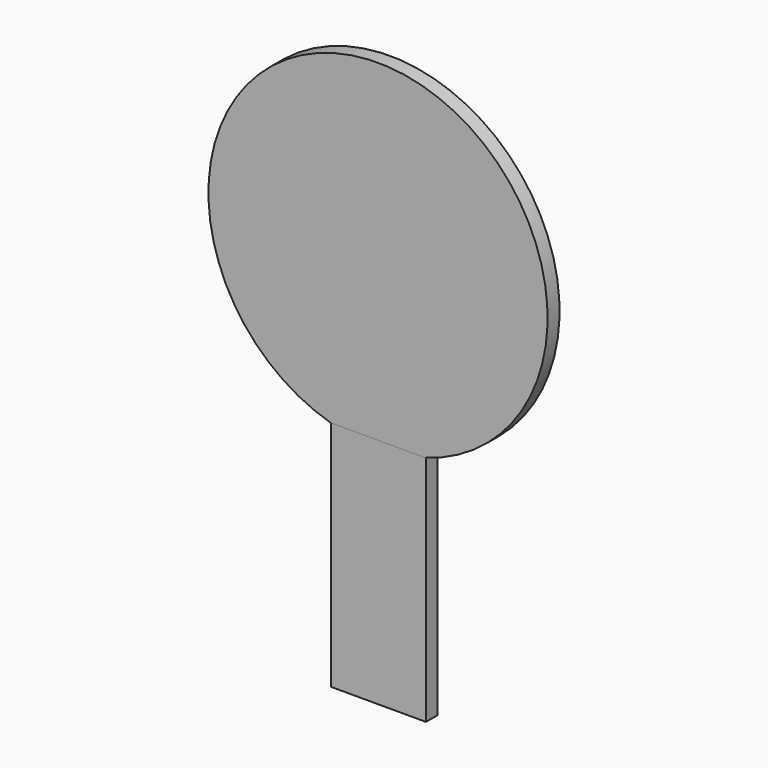
from build123d import *

# Parameters (mm, degrees)
F1_DEPTH = 5.842
F0_W     = 36.9333177805
F0_H     = 90.6793028116
F2_DEPTH = 5.588


with BuildPart() as f1:
    # F0 (on Front) → F1 (new body)
    with BuildSketch(Plane.XZ):
        with BuildLine():
            Line((-54.8489093781, 90.6793028116), (-17.9155915976, 90.6793028116))
            ThreePointArc((-17.9155915976, 90.6793028116), (-36.3822504878, 220.1306557061), (-54.8489093781, 90.6793028116))
        make_face()
    extrude(amount=F1_DEPTH)

    # F0 (on Front) → F2 (join)
    with BuildSketch(Plane.XZ):
        with Locations((-36.3822504878, 45.3396514058)):
            Rectangle(F0_W, F0_H)
    extrude(amount=F2_DEPTH)


solid = f1.part
